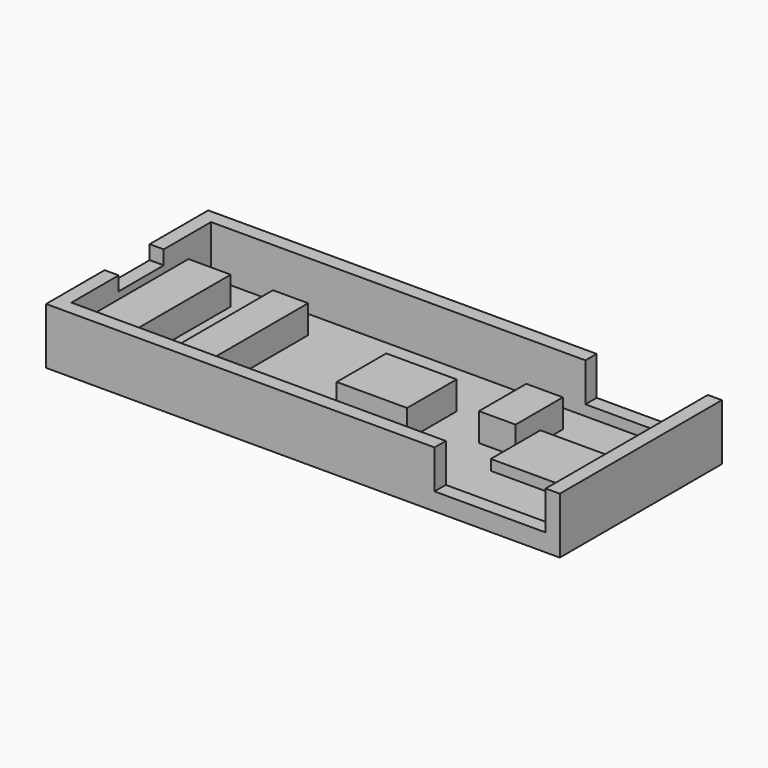
from build123d import *

# Parameters (mm, degrees)
F0_W     = 5
F0_H     = 16.8
F0_W_2   = 10
F0_H_2   = 8.8
F0_W_3   = 15.8
F0_H_3   = 8
F1_DEPTH = 1
F0_H_4   = 2
F2_DEPTH = 2.5
F3_DEPTH = 5
F4_DEPTH = 8
F0_W_4   = 2
F5_DEPTH = 6


with BuildPart() as f1:
    # F0 (on Top) → F1 (new body)
    with BuildSketch(Plane.XY):
        Polygon((69, 24.8), (53.2, 24.8), (53.2, 20.8), (53.2, 16.8), (69, 16.8), align=None)
        Polygon((0, 24.8), (0, 20.8), (6, 20.8), (6, 4), (0, 4), (0, 0), (53.2, 0), (53.2, 8), (53.2, 12.4), (48, 12.4), (48, 20.8), (53.2, 20.8), (53.2, 24.8), align=None)
        with Locations((14.5, 12.4)):
            Rectangle(F0_W, F0_H, mode=Mode.SUBTRACT)
        with Locations((36.3, 12.4)):
            Rectangle(F0_W_2, F0_H_2, mode=Mode.SUBTRACT)
        with Locations((61.1, 4)):
            Rectangle(F0_W_3, F0_H_3)
    extrude(amount=F1_DEPTH)

    # F0 (on Top) → F2 (join)
    with BuildSketch(Plane.XY):
        with Locations((61.1, 25.8)):
            Rectangle(F0_W_3, F0_H_4)
        Polygon((69, 8), (69, 16.8), (53.2, 16.8), (53.2, 12.4), (53.2, 8), align=None)
        with Locations((61.1, -1)):
            Rectangle(F0_W_3, F0_H_4)
    extrude(amount=F2_DEPTH)

    # F0 (on Top) → F3 (join)
    with BuildSketch(Plane.XY):
        Polygon((6, 20.8), (0, 20.8), (0, 16.4), (0, 8.4), (0, 4), (6, 4), align=None)
        with Locations((14.5, 12.4)):
            Rectangle(F0_W, F0_H)
        with Locations((36.3, 12.4)):
            Rectangle(F0_W_2, F0_H_2)
        Polygon((53.2, 16.8), (53.2, 20.8), (48, 20.8), (48, 12.4), (53.2, 12.4), align=None)
    extrude(amount=F3_DEPTH)

    # F0 (on Top) → F4 (join)
    with BuildSketch(Plane.XY):
        Polygon((0, 16.4), (0, 20.8), (0, 24.8), (53.2, 24.8), (53.2, 26.8), (-2, 26.8), (-2, 16.4), align=None)
        Polygon((69, 26.8), (69, 24.8), (69, 16.8), (69, 8), (69, 0), (69, -2), (71, -2), (71, 26.8), align=None)
        Polygon((0, 4), (0, 8.4), (-2, 8.4), (-2, -2), (53.2, -2), (53.2, 0), (0, 0), align=None)
    extrude(amount=F4_DEPTH)

    # F0 (on Top) → F5 (join)
    with BuildSketch(Plane.XY):
        with Locations((-1, 12.4)):
            Rectangle(F0_W_4, F0_H_3)
    extrude(amount=F5_DEPTH)


solid = f1.part
